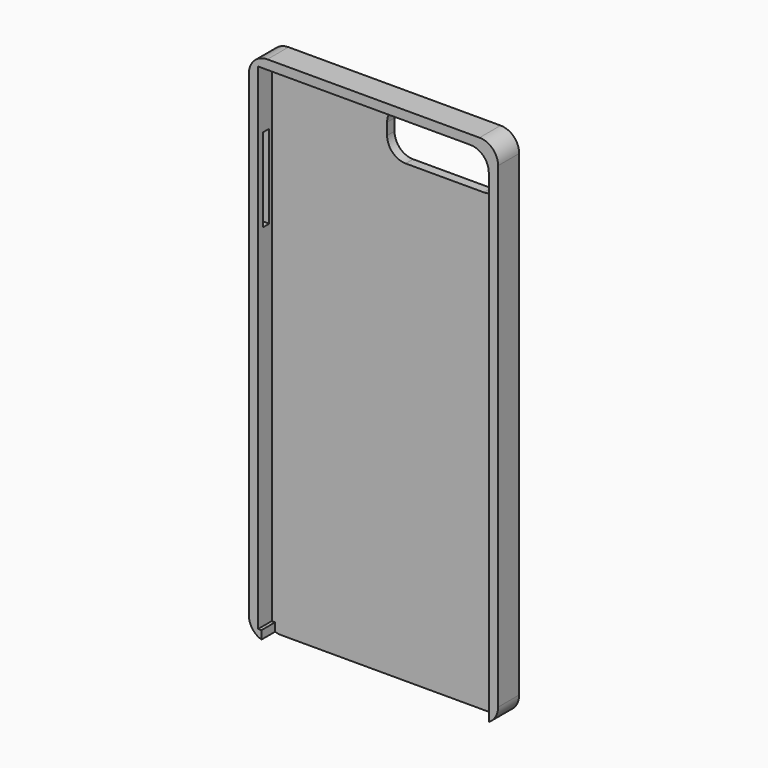
from build123d import *

# Parameters (mm, degrees)
F0_W      = 67.1
F0_H      = 138.3
F1_DEPTH  = 3.55
F2_T      = -2.5
F3_R      = 5
F4_W      = 15.2049176395
F4_H      = 6.8852454424
F5_DEPTH  = 12.5
F7_R      = 5
F8_DEPTH  = 25
F9_W      = 2.0960036782
F9_H      = 22.5108209997
F10_DEPTH = 12.5


with BuildPart() as f1:
    # F0 (on Front) → F1 (new body, symmetric)
    with BuildSketch(Plane.XZ):
        Rectangle(F0_W, F0_H)
    extrude(amount=F1_DEPTH, both=True)

    # F2
    f2_openings = [f1.faces().sort_by_distance(p)[0] for p in [
        (0, -3.55, 0),
    ]]
    offset(amount=F2_T, openings=f2_openings)

    # F3
    f3_edges = [f1.edges().sort_by_distance(p)[0] for p in [
        (-33.55, 0, 69.15),
        (33.55, 0, 69.15),
        (33.55, 0, -69.15),
        (-33.55, 0, -69.15),
    ]]
    fillet(f3_edges, radius=F3_R)

    # F4 (on face) → F5 (cut, symmetric)
    with BuildSketch(Plane.XZ.offset(-1.05)):
        Polygon((12.9098352045, 53.504101932), (12.9098352045, 60.3893473744), (28.114752844, 60.3893473744), (28.114752844, 53.504101932), (31.05, 53.504101932), (31.05, 66.65), (0, 66.65), (0, 53.504101932), align=None)
        with Locations((20.5122940242, 56.9467246532)):
            Rectangle(F4_W, F4_H)
    extrude(amount=F5_DEPTH, both=True, mode=Mode.SUBTRACT)

    # F7
    f7_edges = [f1.edges().sort_by_distance(p)[0] for p in [
        (0, 2.3, 53.504102),
        (0, 2.3, 66.65),
        (31.05, 0, 66.65),
        (31.05, 2.3, 53.504102),
    ]]
    fillet(f7_edges, radius=F7_R)

    # F6 (on face) → F8 (cut)
    with BuildSketch(Plane.XY.offset(-66.65)):
        Polygon((5.7946089791, 1.05), (-30.1529895514, 1.05), (-30.1529895514, -3.55), (31.05, -3.55), (31.05, 1.05), align=None)
    extrude(amount=-F8_DEPTH, mode=Mode.SUBTRACT)

    # F9 (on face) → F10 (cut, symmetric)
    with BuildSketch(Plane(origin=(-33.55, 0, 0), x_dir=(0, -1, 0), z_dir=(-1, 0, 0))):
        with Locations((0.850938115, 39.116631262)):
            Rectangle(F9_W, F9_H)
    extrude(amount=F10_DEPTH, both=True, mode=Mode.SUBTRACT)


solid = f1.part
